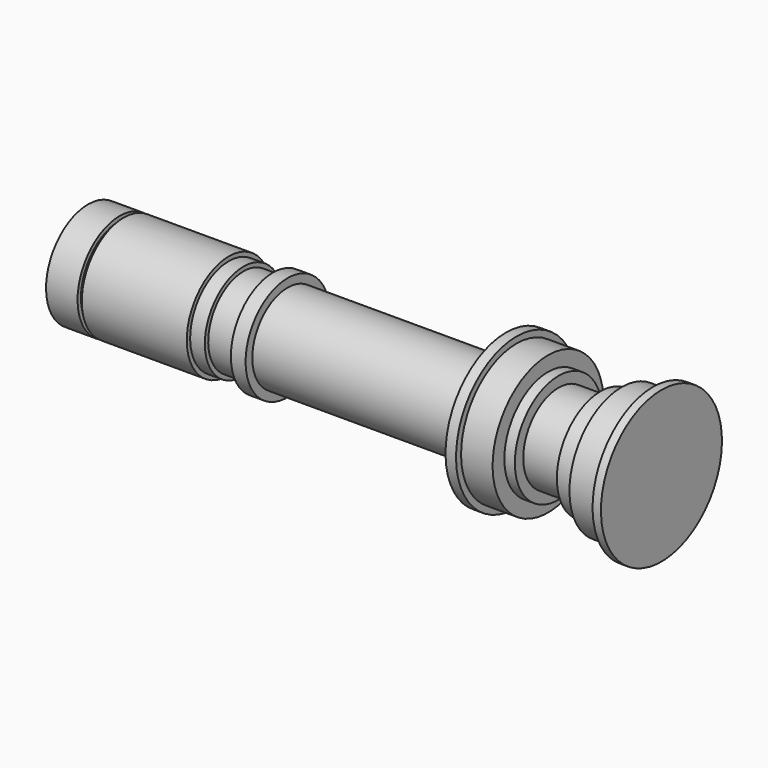
from build123d import *

# Parameters (mm, degrees)
F2_W = 8.89
F2_H = 5.08


with BuildPart() as f1:
    # F0 (on Front) → F1 (revolve)
    with BuildSketch(Plane.XZ):
        Polygon((19.05, 31.75), (0, 31.75), (0, 0), (346.71, 0), (346.71, 45.72), (341.63, 45.72), (341.63, 39.37), (322.58, 39.37), (322.58, 33.02), (309.88, 33.02), (309.88, 26.67), (284.48, 26.67), (284.48, 33.02), (278.13, 33.02), (278.13, 41.91), (259.08, 41.91), (259.08, 45.72), (252.73, 45.72), (252.73, 26.67), (100.33, 26.67), (93.98, 26.67), (93.98, 29.21), (85.09, 29.21), (85.09, 31.75), (21.59, 31.75), (21.59, 29.21), (19.05, 29.21), align=None)
    revolve(axis=Axis((173.355, 0, 0), (-1, 0, 0)))

    # F2 (on Front) → F3 (revolve)
    with BuildSketch(Plane.XZ):
        with Locations((116.205, 29.21)):
            Rectangle(F2_W, F2_H)
    revolve(axis=Axis((173.355, 0, 0), (-1, 0, 0)))


solid = f1.part
